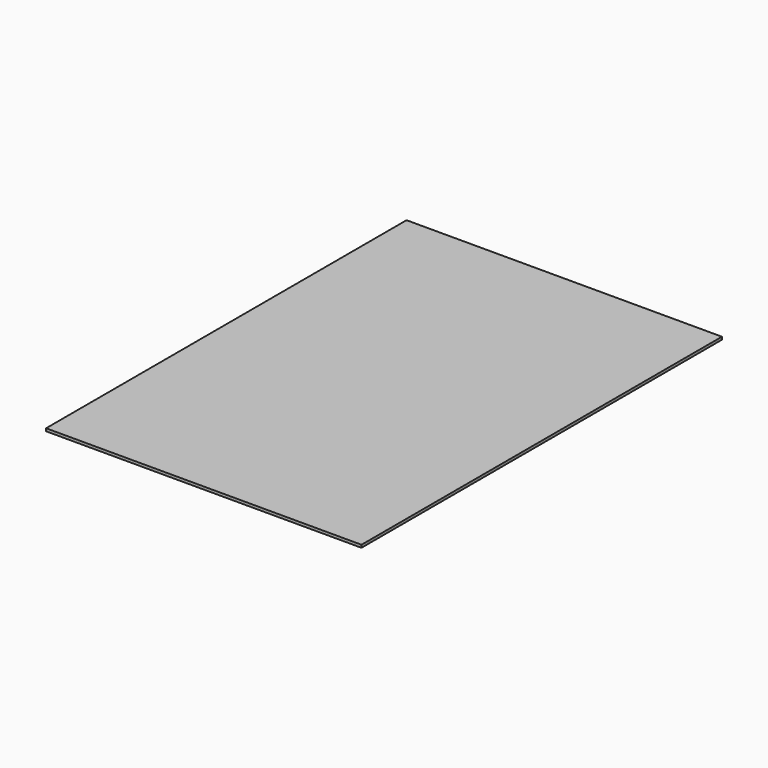
from build123d import *

# Parameters (mm, degrees)
SKETCH_W  = 140
SKETCH_H  = 200
PAD_DEPTH = 1.2


with BuildPart() as part:
    # Sketch → Pad (new body)
    with BuildSketch(Plane.XY):
        Rectangle(SKETCH_W, SKETCH_H)
    extrude(amount=PAD_DEPTH)


solid = part.part
